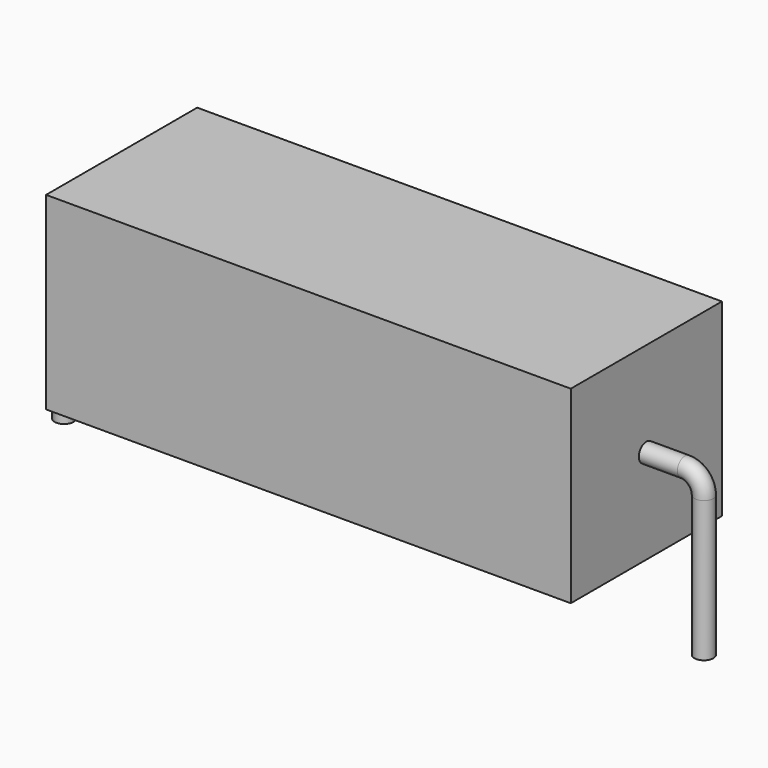
from build123d import *

# Parameters (mm, degrees)
SKETCH_R    = 0.45
SKETCH002_W = 25
SKETCH002_H = 9
PAD_DEPTH   = 4.5


with BuildPart() as sweep_body:
    # Sweep: sweep along a path in Sketch001
    with BuildLine(Plane.XZ) as sweep_path:
        Line((0, -3), (0, 3.7))
        ThreePointArc((0, 3.7), (0.263607, 4.336399), (0.900009, 4.6))
        Line((0.900009, 4.6), (29.58, 4.6))
        ThreePointArc((29.58, 4.6), (30.216396, 4.336396), (30.48, 3.7))
        Line((30.48, 3.7), (30.48, -3))
    # Sketch → Sweep (sweep)
    with BuildSketch(Plane.XY.offset(-2)):
        Circle(SKETCH_R)
    sweep(path=sweep_path.line)


with BuildPart() as pad:
    # Sketch002 → Pad (new body, symmetric)
    with BuildSketch(Plane.XZ):
        with Locations((15.24, 4.6)):
            Rectangle(SKETCH002_W, SKETCH002_H)
    extrude(amount=PAD_DEPTH, both=True)


solid = Compound([sweep_body.part, pad.part])
